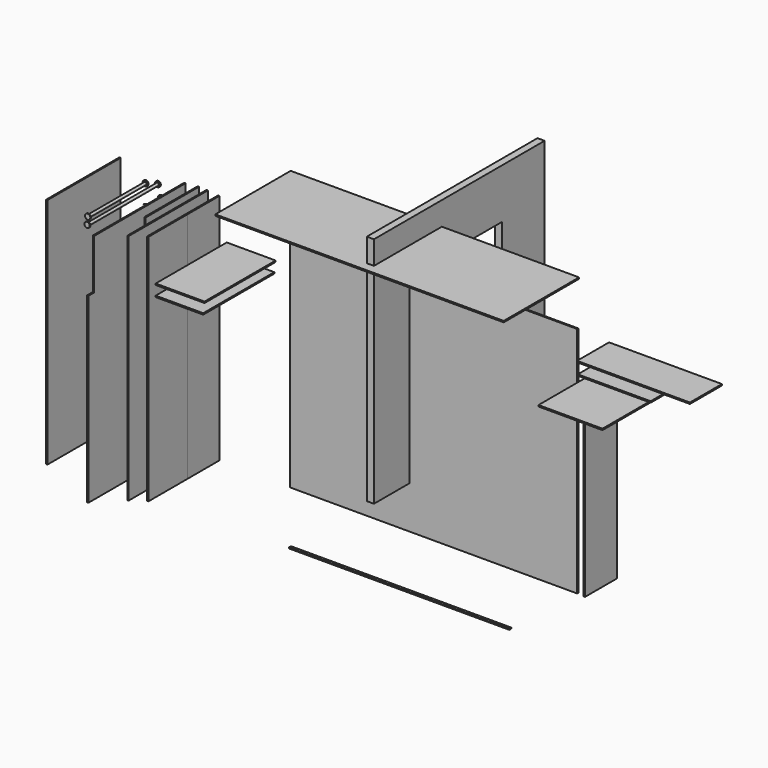
from build123d import *

# Parameters (mm, degrees)
F0_W      = 3230
F0_H      = 2620
F1_DEPTH  = 15
F3_DEPTH  = 80
F0_W_2    = 15
F4_DEPTH  = 1000
F5_DEPTH  = 450
F0_W_3    = 550
F0_H_2    = 15
F6_DEPTH  = 1000
F0_W_4    = 535
F7_DEPTH  = 1000
F8_DEPTH  = 1115
F0_R      = 30
F0_R_2    = 15
F9_DEPTH  = 10
F10_DEPTH = 500
F12_DEPTH = 10
F0_W_5    = 1270
F13_DEPTH = 450
F0_H_3    = 1755
F14_DEPTH = 450
F0_W_6    = 820
F15_DEPTH = 450
F16_DEPTH = 10
F17_DEPTH = 410
F0_W_7    = 435
F19_DEPTH = 450
F0_W_8    = 720
F20_DEPTH = 1000
F21_DEPTH = 750
F0_W_9    = 2480
F0_H_4    = 10
F22_DEPTH = 30
F0_H_5    = 2610
F23_DEPTH = 1365
F24_W     = 80
F24_H     = 560
F25_DEPTH = 25
F0_W_10   = 3245
F26_DEPTH = 1060
F27_DEPTH = 1030


with BuildPart() as f1:
    # F0 (on Front) → F1 (new body)
    with BuildSketch(Plane.XZ):
        Rectangle(F0_W, F0_H)
    extrude(amount=F1_DEPTH)


with BuildPart() as f3:
    # F2 (on Right) → F3 (new body)
    with BuildSketch(Plane.YZ):
        Polygon((845.044619, -538.103774), (1445.044619, -538.103774), (1445.044619, 2081.896226), (-954.955381, 2081.896226), (-954.955381, -538.103774), (-454.955381, -538.103774), (-454.955381, 1521.896226), (845.044619, 1521.896226), align=None)
    extrude(amount=F3_DEPTH)


with BuildPart() as f4:
    # F0 (on Front) → F4 (new body)
    with BuildSketch(Plane.XZ):
        with Locations((-2429.186039, 0)):
            Rectangle(F0_W_2, F0_H)
    extrude(amount=F4_DEPTH)


with BuildPart() as f5:
    # F0 (on Front) → F5 (new body)
    with BuildSketch(Plane.XZ):
        with Locations((-2429.186039, 0)):
            Rectangle(F0_W_2, F0_H)
    extrude(amount=F5_DEPTH)


with BuildPart() as f6:
    # F0 (on Front) → F6 (new body)
    with BuildSketch(Plane.XZ):
        with Locations((-2065.152264, 867.5)):
            Rectangle(F0_W_3, F0_H_2)
    extrude(amount=F6_DEPTH)


with BuildPart() as f7:
    # F0 (on Front) → F7 (new body)
    with BuildSketch(Plane.XZ):
        with Locations((-2072.652264, 747.38241)):
            Rectangle(F0_W_4, F0_H_2)
    extrude(amount=F7_DEPTH)


with BuildPart() as f8:
    # F0 (on Front) → F8 (new body)
    with BuildSketch(Plane.XZ):
        with Locations((-2559.75318, 11.931922)):
            Rectangle(F0_W_2, F0_H)
    extrude(amount=F8_DEPTH)


with BuildPart() as f9:
    # F0 (on Front) → F9 (new body)
    with BuildSketch(Plane.XZ):
        with Locations((-3111.592531, 1204.600811)):
            Circle(F0_R)
        with Locations((-3111.592531, 1204.600811)):
            Circle(F0_R_2, mode=Mode.SUBTRACT)
    extrude(amount=F9_DEPTH)

    # F0 (on Front) → F10 (join)
    with BuildSketch(Plane.XZ):
        with Locations((-3111.592531, 1204.600811)):
            Circle(F0_R_2)
    extrude(amount=F10_DEPTH)

    # F11: F9 across face


with BuildPart() as f9_1:
    add(f9.part)
    add(f9.part.mirror(Plane(origin=(-3111.592531, -500, 1204.600811), x_dir=(1, 0, 0), z_dir=(0, -1, 0))))


with BuildPart() as f12:
    # F0 (on Front) → F12 (new body)
    with BuildSketch(Plane.XZ):
        with BuildLine():
            ThreePointArc((-3064.584009, 1038.397153), (-3045.812575, 1050.884731), (-3038.551055, 1072.228974))
            ThreePointArc((-3038.551055, 1072.228974), (-3073.367749, 1107.228494), (-3108.549135, 1072.595582))
            Line((-3108.549135, 1072.595582), (-3106.049273, 1072.569396))
            ThreePointArc((-3106.049273, 1072.569396), (-3073.380842, 1104.728528), (-3041.051055, 1072.228974))
            ThreePointArc((-3041.051055, 1072.228974), (-3049.109465, 1050.807988), (-3069.288511, 1040.009714))
            Line((-3069.288511, 1040.009714), (-3071.06935, 1037.317069))
            ThreePointArc((-3071.06935, 1037.317069), (-3067.801262, 1037.704492), (-3064.584009, 1038.397153))
        make_face()
        with BuildLine():
            Line((-3062.434912, 1029.3082), (-3064.584009, 1038.397153))
            ThreePointArc((-3064.584009, 1038.397153), (-3067.801262, 1037.704492), (-3071.06935, 1037.317069))
            Line((-3071.06935, 1037.317069), (-3076.366186, 1029.3082))
            Line((-3076.366186, 1029.3082), (-3252.833605, 959.742129))
            Line((-3252.833605, 959.742129), (-3274.821281, 951.598525))
            Line((-3274.821281, 951.598525), (-3231.701181, 951.598525))
            Line((-3231.701181, 951.598525), (-3074.202299, 1026.557922))
            Line((-3074.202299, 1026.557922), (-3063.386917, 1026.557922))
            Line((-3063.386917, 1026.557922), (-2910.394669, 951.598525))
            Line((-2910.394669, 951.598525), (-2873.748541, 951.598525))
            Line((-2873.748541, 951.598525), (-2887.185574, 958.113372))
            Line((-2887.185574, 958.113372), (-3062.434912, 1029.3082))
        make_face()
    extrude(amount=F12_DEPTH)


with BuildPart() as f13:
    # F0 (on Front) → F13 (new body)
    with BuildSketch(Plane.XZ):
        with Locations((2596.248517, 1276.993699)):
            Rectangle(F0_W_5, F0_H_2)
    extrude(amount=F13_DEPTH)


with BuildPart() as f14:
    # F0 (on Front) → F14 (new body)
    with BuildSketch(Plane.XZ):
        with Locations((2043.675013, -147.40592)):
            Rectangle(F0_W_2, F0_H_3)
    extrude(amount=F14_DEPTH)


with BuildPart() as f15:
    # F0 (on Front) → F15 (new body)
    with BuildSketch(Plane.XZ):
        with Locations((2379.035149, 1145.850129)):
            Rectangle(F0_W_6, F0_H_2)
    extrude(amount=F15_DEPTH)


with BuildPart() as f16:
    # F0 (on Front) → F16 (new body)
    with BuildSketch(Plane.XZ):
        with Locations((-3249.61853, 1167.27972)):
            Circle(F0_R)
        with Locations((-3249.61853, 1167.27972)):
            Circle(F0_R_2, mode=Mode.SUBTRACT)
    extrude(amount=F16_DEPTH)

    # F0 (on Front) → F17 (join)
    with BuildSketch(Plane.XZ):
        with Locations((-3249.61853, 1167.27972)):
            Circle(F0_R_2)
    extrude(amount=F17_DEPTH)

    # F18: F16 across face


with BuildPart() as f16_1:
    add(f16.part)
    add(f16.part.mirror(Plane(origin=(-3249.61853, -410, 1167.27972), x_dir=(1, 0, 0), z_dir=(0, -1, 0))))


with BuildPart() as f19:
    # F0 (on Front) → F19 (new body)
    with BuildSketch(Plane.XZ):
        with Locations((-2131.379099, 682.653434)):
            Rectangle(F0_W_7, F0_H_2)
    extrude(amount=F19_DEPTH)


with BuildPart() as f20:
    # F0 (on Front) → F20 (new body)
    with BuildSketch(Plane.XZ):
        with Locations((2327.306256, 1064.39466)):
            Rectangle(F0_W_8, F0_H_2)
    extrude(amount=F20_DEPTH)


with BuildPart() as f21:
    # F0 (on Front) → F21 (new body)
    with BuildSketch(Plane.XZ):
        with Locations((-2660.541229, 14.597235)):
            Rectangle(F0_W_2, F0_H)
    extrude(amount=F21_DEPTH)


with BuildPart() as f22:
    # F0 (on Front) → F22 (new body)
    with BuildSketch(Plane.XZ):
        with Locations((-376.937518, -1903.522964)):
            Rectangle(F0_W_9, F0_H_4)
    extrude(amount=F22_DEPTH)


with BuildPart() as f23:
    # F0 (on Front) → F23 (new body)
    with BuildSketch(Plane.XZ):
        with Locations((-2811.983995, 5.202346)):
            Rectangle(F0_W_2, F0_H_5)
    extrude(amount=F23_DEPTH)

    # F24 (on face) → F25 (cut)
    with BuildSketch(Plane(origin=(-2819.483995, 0, 0), x_dir=(0, -1, 0), z_dir=(-1, 0, 0))):
        with Locations((1325, 1030.202346)):
            Rectangle(F24_W, F24_H)
    extrude(amount=-F25_DEPTH, mode=Mode.SUBTRACT)


with BuildPart() as f26:
    # F0 (on Front) → F26 (new body)
    with BuildSketch(Plane.XZ):
        with Locations((1.442251, 1810.75985)):
            Rectangle(F0_W_10, F0_H_2)
    extrude(amount=F26_DEPTH)


with BuildPart() as f27:
    # F0 (on Front) → F27 (new body)
    with BuildSketch(Plane.XZ):
        with Locations((-3541.495733, 14.469562)):
            Rectangle(F0_W_2, F0_H)
    extrude(amount=F27_DEPTH)


solid = Compound([f1.part, f3.part, f4.part, f5.part, f6.part, f7.part, f8.part, f9_1.part, f12.part, f13.part, f14.part, f15.part, f16_1.part, f19.part, f20.part, f21.part, f22.part, f23.part, f26.part, f27.part])
